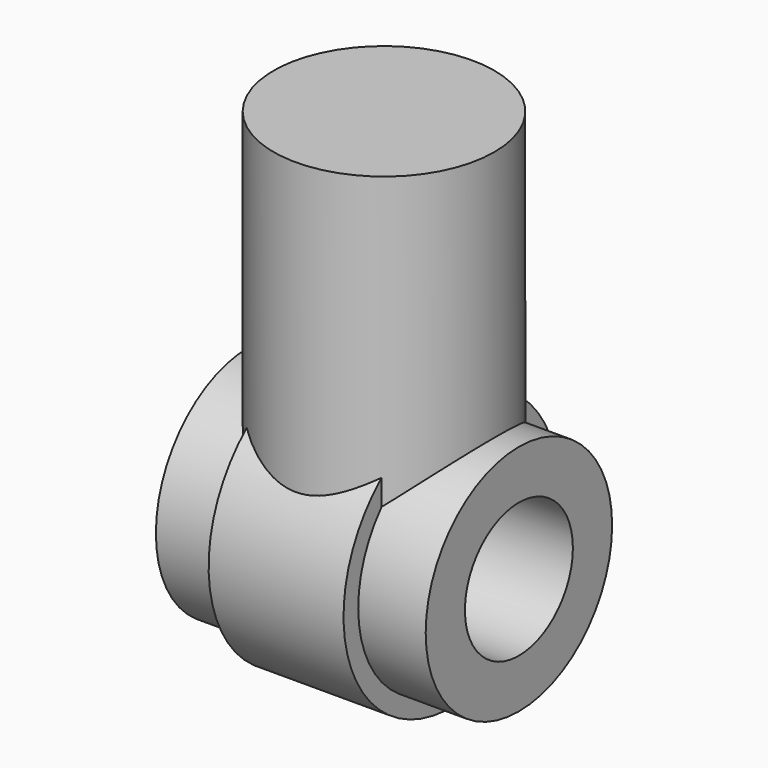
from build123d import *

# Parameters (mm, degrees)
F0_R     = 9.5
F1_DEPTH = 11
F2_R     = 9
F3_DEPTH = 30
F5_R     = 11
F6_DEPTH = 5.5
F7_R     = 5.5
F8_DEPTH = 38.19265


with BuildPart() as f1:
    # F0 (on Right) → F1 (new body, symmetric)
    with BuildSketch(Plane.YZ):
        Circle(F0_R)
    extrude(amount=F1_DEPTH, both=True)

    # F2 (on Top) → F3 (join)
    with BuildSketch(Plane.XY):
        Circle(F2_R)
    extrude(amount=F3_DEPTH)

    # F5 (on Right) → F6 (join, symmetric)
    with BuildSketch(Plane.YZ):
        Circle(F5_R)
    extrude(amount=F6_DEPTH, both=True)

    # F7 (on offset) → F8 (cut, symmetric)
    with BuildSketch(Plane.YZ.offset(13)):
        Circle(F7_R)
    extrude(amount=F8_DEPTH, both=True, mode=Mode.SUBTRACT)


solid = f1.part
